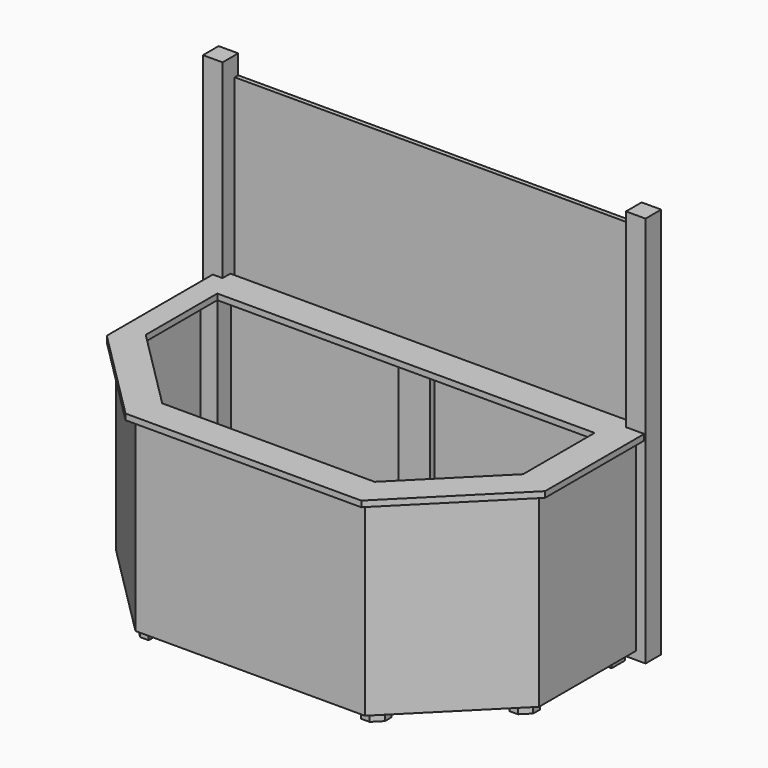
from build123d import *

# Parameters (mm, degrees)
F0_W      = 78
F0_H      = 78
F1_DEPTH  = 900
F2_W      = 1890
F2_H      = 864
F3_DEPTH  = 27
F4_W      = 555.198976
F4_H      = 864
F5_DEPTH  = 27
F6_W      = 555.198976
F6_H      = 864
F7_DEPTH  = 27
F8_W      = 1054.397951
F8_H      = 864
F9_DEPTH  = 27
F11_DEPTH = 864
F13_DEPTH = 864
F14_W     = 1854
F14_H     = 45
F15_DEPTH = 27
F16_W     = 90
F16_H     = 90
F17_DEPTH = 1800
F18_W     = 1854
F18_H     = 1711.126566
F19_DEPTH = 20
F20_W     = 144
F20_H     = 864
F21_DEPTH = 27
F23_DEPTH = 30
F24_W     = 144
F24_H     = 864
F25_DEPTH = 27


with BuildPart() as f1:
    # F0 (on Top) → F1 (new body)
    with BuildSketch(Plane.XY):
        with Locations((-282.501038, 92.361054)):
            Rectangle(F0_W, F0_H)
        with Locations((1529.498962, 92.361054)):
            Rectangle(F0_W, F0_H)
        Polygon((-282.501038, -435.837922), (-243.501038, -435.837922), (-243.501038, -357.837922), (-321.501038, -357.837922), (-321.501038, -396.837922), align=None)
        Polygon((1568.498962, -396.837922), (1568.498962, -357.837922), (1490.498962, -357.837922), (1490.498962, -435.837922), (1529.498962, -435.837922), align=None)
        Polygon((135.299986, -814.638946), (135.299986, -736.638946), (57.299986, -736.638946), (57.299986, -775.638946), (96.299986, -814.638946), align=None)
        Polygon((1189.697937, -775.638946), (1189.697937, -736.638946), (1111.697937, -736.638946), (1111.697937, -814.638946), (1150.697937, -814.638946), align=None)
    extrude(amount=F1_DEPTH)


with BuildPart() as f3:
    # F2 (on face) → F3 (new body)
    with BuildSketch(Plane(origin=(0, 131.361054, 0), x_dir=(-1, 0, 0), z_dir=(0, 1, 0))):
        with Locations((-623.498962, 468)):
            Rectangle(F2_W, F2_H)
    extrude(amount=F3_DEPTH)


with BuildPart() as f5:
    # F4 (on face) → F5 (new body)
    with BuildSketch(Plane(origin=(-321.501038, 0, 0), x_dir=(0, -1, 0), z_dir=(-1, 0, 0))):
        with Locations((119.238434, 468)):
            Rectangle(F4_W, F4_H)
    extrude(amount=F5_DEPTH)


with BuildPart() as f7:
    # F6 (on face) → F7 (new body)
    with BuildSketch(Plane.YZ.offset(1568.498962)):
        with Locations((-119.238434, 468)):
            Rectangle(F6_W, F6_H)
    extrude(amount=F7_DEPTH)


with BuildPart() as f9:
    # F8 (on face) → F9 (new body)
    with BuildSketch(Plane.XZ.offset(814.638946)):
        with Locations((623.498961, 468)):
            Rectangle(F8_W, F8_H)
    extrude(amount=F9_DEPTH)


with BuildPart() as f11:
    # F10 (on face) → F11 (new body)
    with BuildSketch(Plane.XY.offset(900)):
        Polygon((1568.498962, -396.837922), (1150.697937, -814.638946), (1150.697937, -841.638946), (1595.498962, -396.837922), align=None)
    extrude(amount=-F11_DEPTH)


with BuildPart() as f13:
    # F12 (on face) → F13 (new body)
    with BuildSketch(Plane.XY.offset(900)):
        Polygon((96.299986, -814.638946), (-321.501038, -396.837922), (-348.501038, -396.837922), (96.299986, -841.638946), align=None)
    extrude(amount=-F13_DEPTH)


with BuildPart() as f15:
    # F14 (on face) → F15 (new body)
    with BuildSketch(Plane.XY.offset(900)):
        Polygon((-243.501038, 53.361054), (1490.498962, 53.361054), (1595.498962, 158.361054), (1550.498962, 158.361054), (-303.501038, 158.361054), (-348.501038, 158.361054), align=None)
        Polygon((1595.498962, 158.361054), (1490.498962, 53.361054), (1490.498962, -357.837922), (1634.498962, -411.323636), (1634.498962, 158.361054), align=None)
        Polygon((1634.498962, -411.323636), (1490.498962, -357.837922), (1111.697937, -736.638946), (1165.183652, -880.638946), align=None)
        Polygon((-243.501038, -357.837922), (-243.501038, 53.361054), (-348.501038, 158.361054), (-348.501038, -396.837922), align=None)
        with Locations((623.498962, 180.861054)):
            Rectangle(F14_W, F14_H)
        Polygon((1165.183652, -880.638946), (1111.697937, -736.638946), (135.299986, -736.638946), (81.814272, -880.638946), align=None)
        Polygon((135.299986, -736.638946), (-243.501038, -357.837922), (-348.501038, -396.837922), (-348.501038, -450.323636), (81.814272, -880.638946), align=None)
    extrude(amount=F15_DEPTH)


with BuildPart() as f17:
    # F16 (on Top) → F17 (new body)
    with BuildSketch(Plane.XY):
        with Locations((1595.498962, 203.361054)):
            Rectangle(F16_W, F16_H)
        with Locations((-348.501038, 203.361054)):
            Rectangle(F16_W, F16_H)
    extrude(amount=F17_DEPTH)


with BuildPart() as f19:
    # F18 (on face) → F19 (new body)
    with BuildSketch(Plane(origin=(0, 248.361054, 0), x_dir=(-1, 0, 0), z_dir=(0, 1, 0))):
        with Locations((-623.498962, 855.563283)):
            Rectangle(F18_W, F18_H)
    extrude(amount=-F19_DEPTH)


with BuildPart() as f21:
    # F20 (on face) → F21 (new body)
    with BuildSketch(Plane(origin=(0, -814.638946, 0), x_dir=(-1, 0, 0), z_dir=(0, 1, 0))):
        with Locations((-1039.697937, 468)):
            Rectangle(F20_W, F20_H)
        with Locations((-207.299986, 468)):
            Rectangle(F20_W, F20_H)
    extrude(amount=F21_DEPTH)


with BuildPart() as f23:
    # F22 (on face) → F23 (new body)
    with BuildSketch(Plane(origin=(0, 0, 36), x_dir=(1, 0, 0), z_dir=(0, 0, -1))):
        Polygon((165.299986, 782.638946), (165.299986, 787.638946), (135.299986, 787.638946), (135.299986, 757.638946), (140.299986, 757.638946), (140.299986, 782.638946), align=None)
        Polygon((1111.697937, 787.638946), (1081.697937, 787.638946), (1081.697937, 782.638946), (1106.697937, 782.638946), (1106.697937, 757.638946), (1111.697937, 757.638946), align=None)
    extrude(amount=-F23_DEPTH)


with BuildPart() as f25:
    # F24 (on face) → F25 (new body)
    with BuildSketch(Plane.XZ.offset(-131.361054)):
        with Locations((620.998962, 468)):
            Rectangle(F24_W, F24_H)
    extrude(amount=F25_DEPTH)


solid = Compound([f1.part, f3.part, f5.part, f7.part, f9.part, f11.part, f13.part, f15.part, f17.part, f19.part, f21.part, f23.part, f25.part])
